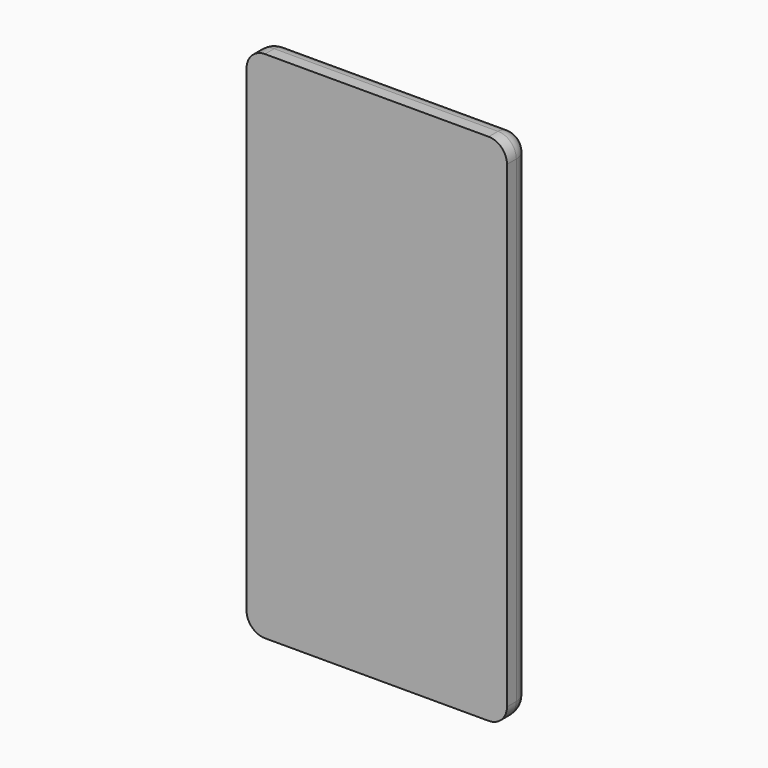
from build123d import *

# Parameters (mm, degrees)
F0_W     = 72.1
F0_H     = 142.4
F1_DEPTH = 8.3
F2_R     = 5.08
F3_R     = 5.08


with BuildPart() as f1:
    # F0 (on Front) → F1 (new body)
    with BuildSketch(Plane.XZ):
        Rectangle(F0_W, F0_H)
    extrude(amount=F1_DEPTH)

    # F2
    f2_edges = [f1.edges().sort_by_distance(p)[0] for p in [
        (-36.05, -4.15, 71.2),
        (36.05, -4.15, 71.2),
        (36.05, -4.15, -71.2),
        (-36.05, -4.15, -71.2),
    ]]
    fillet(f2_edges, radius=F2_R)

    # F3
    f3_edges = [f1.edges().sort_by_distance(p)[0] for p in [
        (36.05, 0, 0),
    ]]
    fillet(f3_edges, radius=F3_R)


solid = f1.part
